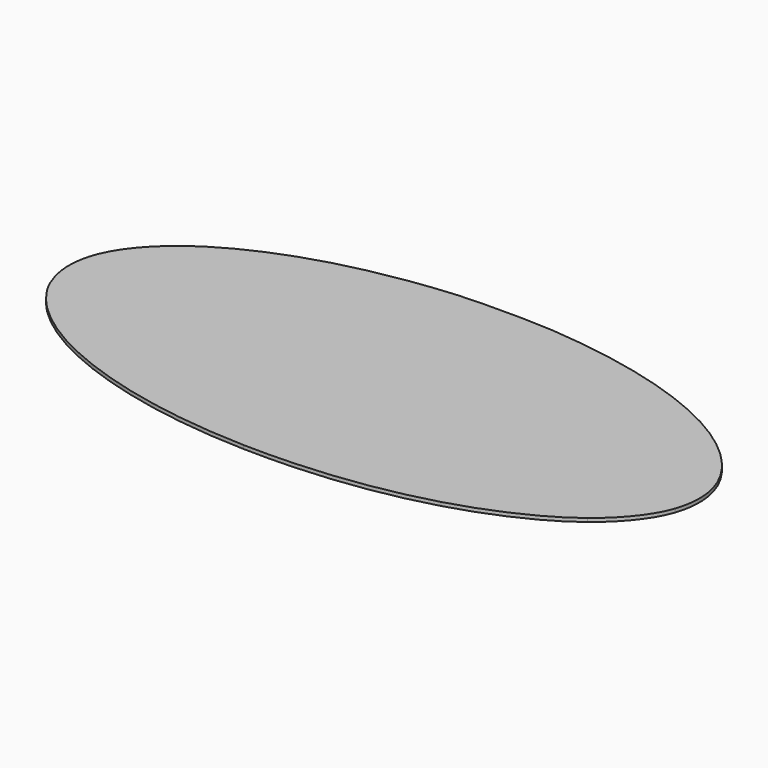
from build123d import *

# Parameters (mm, degrees)
F2_DEPTH = 25.4


with BuildPart() as f2:
    # F1 (on Top) → F2 (new body)
    with BuildSketch(Plane.XY):
        with BuildLine():
            add(Edge.make_bspline(
                [(338.808568, 1076.2607888), (1177.613977, 1009.3793122), (1835.703466, 747.5897164), (2121.40927, 367.1379246)],
                knots=[0, 0, 0, 0, 1, 1, 1, 1], degree=3))
            add(Edge.make_bspline(
                [(-336.59318, 1076.2131638), (-184.038113, 1088.3100662), (187.362211, 1088.3362028), (338.808568, 1076.2607888)],
                knots=[0, 0, 0, 0, 1, 1, 1, 1], degree=3))
            add(Edge.make_bspline(
                [(-1798.8381092, 656.3331552), (-1440.1367184, 883.221119), (-932.630342, 1028.9502916), (-336.59318, 1076.2131638)],
                knots=[0, 0, 0, 0, 1, 1, 1, 1], degree=3))
            add(Edge.make_bspline(
                [(-2211.3484602, 214.4111282), (-2147.6651738, 371.0291792), (-2000.2956692, 528.9060796), (-1798.8381092, 656.3331552)],
                knots=[0, 0, 0, 0, 1, 1, 1, 1], degree=3))
            add(Edge.make_bspline(
                [(-2205.74997, -222.5787014), (-2267.88091, -76.2598424), (-2269.7642692, 70.7474074), (-2211.3484602, 214.4111282)],
                knots=[0, 0, 0, 0, 1, 1, 1, 1], degree=3))
            add(Edge.make_bspline(
                [(-2107.8400058, -383.8687014), (-2158.7942346, -318.362584), (-2179.703921, -283.9173392), (-2205.74997, -222.5787014)],
                knots=[0, 0, 0, 0, 1, 1, 1, 1], degree=3))
            add(Edge.make_bspline(
                [(-137.500868, -1083.8523154), (-1015.799975, -1061.966126), (-1795.9728114, -784.8016054), (-2107.8400058, -383.8687014)],
                knots=[0, 0, 0, 0, 1, 1, 1, 1], degree=3))
            add(Edge.make_bspline(
                [(1154.149711, -932.9843164), (763.987042, -1044.816935), (330.0419612, -1095.5029144), (-137.500868, -1083.8523154)],
                knots=[0, 0, 0, 0, 1, 1, 1, 1], degree=3))
            add(Edge.make_bspline(
                [(1913.9062052, -573.7834346), (1736.4828618, -713.5553674), (1454.3809368, -846.9286084), (1154.149711, -932.9843164)],
                knots=[0, 0, 0, 0, 1, 1, 1, 1], degree=3))
            add(Edge.make_bspline(
                [(2223.319912, -179.7139154), (2179.667218, -310.0282852), (2067.7067612, -452.6212436), (1913.9062052, -573.7834346)],
                knots=[0, 0, 0, 0, 1, 1, 1, 1], degree=3))
            add(Edge.make_bspline(
                [(2121.40927, 367.1379246), (2251.550107, 193.8400746), (2286.1893062, 7.9665576), (2223.319912, -179.7139154)],
                knots=[0, 0, 0, 0, 1, 1, 1, 1], degree=3))
        make_face()
    extrude(amount=-F2_DEPTH)


solid = f2.part
